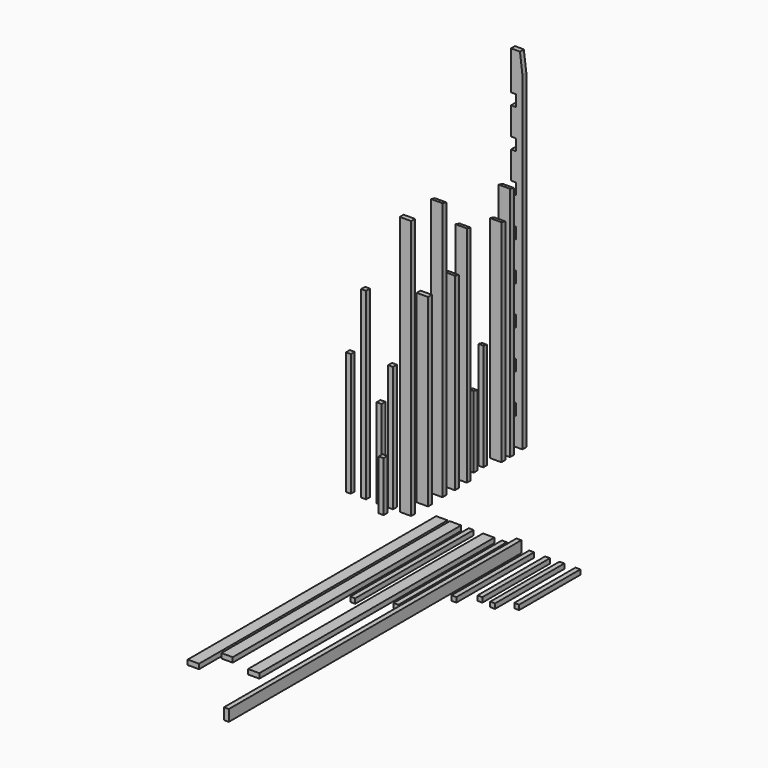
from build123d import *

# Parameters (mm, degrees)
F0_W      = 88.9
F0_H      = 38.1
F1_DEPTH  = 2438.4
F2_W      = 88.9
F2_H      = 38.1
F3_DEPTH  = 2241.55
F4_W      = 88.9
F4_H      = 38.1
F5_DEPTH  = 2038.35
F6_W      = 38.1
F6_H      = 38.1
F7_DEPTH  = 1162.05
F8_W      = 38.1
F8_H      = 38.1
F9_DEPTH  = 984.25
F10_W     = 38.1
F10_H     = 38.1
F11_DEPTH = 698.5
F12_W     = 88.9
F12_H     = 38.1
F13_DEPTH = 1447.8
F14_W     = 38.1
F14_H     = 38.1
F15_DEPTH = 393.7
F16_W     = 88.9
F16_H     = 38.1
F17_DEPTH = 2032
F19_DEPTH = 101.6
F20_W     = 88.9
F20_H     = 38.1
F21_DEPTH = 1482.725
F23_DEPTH = 101.6
F24_W     = 88.9
F24_H     = 38.1
F25_DEPTH = 2305.05
F26_W     = 88.9
F26_H     = 38.1
F27_DEPTH = 1757.3625
F29_DEPTH = 88.9
F30_W     = 38.1
F30_H     = 38.1
F31_DEPTH = 1063.625
F32_W     = 38.1
F32_H     = 38.1
F33_DEPTH = 565.15
F35_DEPTH = 101.6
F36_W     = 38.1
F36_H     = 38.1
F37_DEPTH = 841.375
F39_DEPTH = 38.1
F40_W     = 38.1
F40_H     = 88.9
F41_DEPTH = 2870.2
F42_W     = 88.9
F42_H     = 38.1
F43_DEPTH = 1658.62
F45_DEPTH = 88.9
F46_W     = 88.9
F46_H     = 38.1
F47_DEPTH = 1854.2
F49_DEPTH = 88.9
F50_W     = 38.1
F50_H     = 38.1
F51_DEPTH = 762
F52_W     = 38.1
F52_H     = 38.1
F53_DEPTH = 663.575
F54_W     = 38.1
F54_H     = 38.1
F55_DEPTH = 1441.45
F56_W     = 38.1
F56_H     = 38.1
F57_DEPTH = 679.45
F58_W     = 38.1
F58_H     = 38.1
F59_DEPTH = 600.075
F60_W     = 38.1
F60_H     = 38.1
F61_DEPTH = 965.2
F62_W     = 88.9
F62_H     = 38.1
F63_DEPTH = 2743.2
F64_W     = 38.1
F64_H     = 88.9
F65_DEPTH = 38.1


with BuildPart() as f1:
    # F0 (on Front) → F1 (new body)
    with BuildSketch(Plane.XZ):
        with Locations((44.45, 19.05)):
            Rectangle(F0_W, F0_H)
    extrude(amount=F1_DEPTH)


with BuildPart() as f3:
    # F2 (on Front) → F3 (new body)
    with BuildSketch(Plane.XZ):
        with Locations((151.405934, 19.05)):
            Rectangle(F2_W, F2_H)
    extrude(amount=F3_DEPTH)


with BuildPart() as f5:
    # F4 (on Top) → F5 (new body)
    with BuildSketch(Plane.XY):
        with Locations((-210.627121, -19.05)):
            Rectangle(F4_W, F4_H)
    extrude(amount=F5_DEPTH)


with BuildPart() as f7:
    # F6 (on Front) → F7 (new body)
    with BuildSketch(Plane.XZ):
        with Locations((274.813263, 19.05)):
            Rectangle(F6_W, F6_H)
    extrude(amount=F7_DEPTH)


with BuildPart() as f9:
    # F8 (on Top) → F9 (new body)
    with BuildSketch(Plane.XY):
        with Locations((-327.726066, -19.05)):
            Rectangle(F8_W, F8_H)
    extrude(amount=F9_DEPTH)


with BuildPart() as f11:
    # F10 (on Top) → F11 (new body)
    with BuildSketch(Plane.XY):
        with Locations((-418.106679, -19.05)):
            Rectangle(F10_W, F10_H)
    extrude(amount=F11_DEPTH)


with BuildPart() as f13:
    # F12 (on Top) → F13 (new body)
    with BuildSketch(Plane.XY):
        with Locations((-209.159441, 144.622839)):
            Rectangle(F12_W, F12_H)
    extrude(amount=F13_DEPTH)


with BuildPart() as f15:
    # F14 (on Top) → F15 (new body)
    with BuildSketch(Plane.XY):
        with Locations((-324.783623, -115.327258)):
            Rectangle(F14_W, F14_H)
    extrude(amount=F15_DEPTH)


with BuildPart() as f17:
    # F16 (on Top) → F17 (new body)
    with BuildSketch(Plane.XY):
        with Locations((-216.784082, 295.611974)):
            Rectangle(F16_W, F16_H)
    extrude(amount=F17_DEPTH)

    # F18 (on face) → F19 (cut)
    with BuildSketch(Plane(origin=(-261.234082, 0, 0), x_dir=(0, -1, 0), z_dir=(-1, 0, 0))):
        Polygon((-314.661974, 2022.475), (-276.561974, 2032), (-314.661974, 2032), align=None)
    extrude(amount=-F19_DEPTH, mode=Mode.SUBTRACT)


with BuildPart() as f21:
    # F20 (on Top) → F21 (new body)
    with BuildSketch(Plane.XY):
        with Locations((-214.697614, 416.115001)):
            Rectangle(F20_W, F20_H)
    extrude(amount=F21_DEPTH)

    # F22 (on face) → F23 (cut)
    with BuildSketch(Plane(origin=(-259.147614, 0, 0), x_dir=(0, -1, 0), z_dir=(-1, 0, 0))):
        Polygon((-435.165001, 1473.2), (-397.065001, 1482.725), (-435.165001, 1482.725), align=None)
    extrude(amount=-F23_DEPTH, mode=Mode.SUBTRACT)


with BuildPart() as f25:
    # F24 (on Front) → F25 (new body)
    with BuildSketch(Plane.XZ):
        with Locations((411.617358, 19.05)):
            Rectangle(F24_W, F24_H)
    extrude(amount=F25_DEPTH)


with BuildPart() as f27:
    # F26 (on Top) → F27 (new body)
    with BuildSketch(Plane.XY):
        with Locations((-220.315881, 539.771175)):
            Rectangle(F26_W, F26_H)
    extrude(amount=F27_DEPTH)

    # F28 (on face) → F29 (cut)
    with BuildSketch(Plane(origin=(-264.765881, 0, 0), x_dir=(0, -1, 0), z_dir=(-1, 0, 0))):
        Polygon((-558.821175, 1747.8375), (-520.721175, 1757.3625), (-558.821175, 1757.3625), align=None)
    extrude(amount=-F29_DEPTH, mode=Mode.SUBTRACT)


with BuildPart() as f31:
    # F30 (on Front) → F31 (new body)
    with BuildSketch(Plane.XZ):
        with Locations((535.116774, 19.05)):
            Rectangle(F30_W, F30_H)
    extrude(amount=F31_DEPTH)


with BuildPart() as f33:
    # F32 (on Top) → F33 (new body)
    with BuildSketch(Plane.XY):
        with Locations((-245.47028, 669.316311)):
            Rectangle(F32_W, F32_H)
    extrude(amount=F33_DEPTH)

    # F34 (on face) → F35 (cut)
    with BuildSketch(Plane(origin=(-264.52028, 0, 0), x_dir=(0, -1, 0), z_dir=(-1, 0, 0))):
        Polygon((-688.366311, 555.625), (-650.266311, 565.15), (-688.366311, 565.15), align=None)
    extrude(amount=-F35_DEPTH, mode=Mode.SUBTRACT)


with BuildPart() as f37:
    # F36 (on Top) → F37 (new body)
    with BuildSketch(Plane.XY):
        with Locations((-243.727744, 761.703074)):
            Rectangle(F36_W, F36_H)
    extrude(amount=F37_DEPTH)

    # F38 (on face) → F39 (cut)
    with BuildSketch(Plane(origin=(-262.777744, 0, 0), x_dir=(0, -1, 0), z_dir=(-1, 0, 0))):
        Polygon((-780.753074, 831.85), (-742.653074, 841.375), (-780.753074, 841.375), align=None)
    extrude(amount=-F39_DEPTH, mode=Mode.SUBTRACT)


with BuildPart() as f41:
    # F40 (on Front) → F41 (new body)
    with BuildSketch(Plane.XZ):
        with Locations((649.33302, 44.45)):
            Rectangle(F40_W, F40_H)
    extrude(amount=F41_DEPTH)


with BuildPart() as f43:
    # F42 (on Top) → F43 (new body)
    with BuildSketch(Plane.XY):
        with Locations((-224.733897, 883.997038)):
            Rectangle(F42_W, F42_H)
    extrude(amount=F43_DEPTH)

    # F44 (on face) → F45 (cut)
    with BuildSketch(Plane(origin=(-269.183897, 0, 0), x_dir=(0, -1, 0), z_dir=(-1, 0, 0))):
        Polygon((-903.047038, 1649.095), (-864.947038, 1658.62), (-903.047038, 1658.62), align=None)
    extrude(amount=-F45_DEPTH, mode=Mode.SUBTRACT)


with BuildPart() as f47:
    # F46 (on Top) → F47 (new body)
    with BuildSketch(Plane.XY):
        with Locations((-225.894965, 970.454122)):
            Rectangle(F46_W, F46_H)
    extrude(amount=F47_DEPTH)

    # F48 (on face) → F49 (cut)
    with BuildSketch(Plane(origin=(-270.344965, 0, 0), x_dir=(0, -1, 0), z_dir=(-1, 0, 0))):
        Polygon((-989.504122, 1844.675), (-951.404122, 1854.2), (-989.504122, 1854.2), align=None)
    extrude(amount=-F49_DEPTH, mode=Mode.SUBTRACT)


with BuildPart() as f51:
    # F50 (on Front) → F51 (new body)
    with BuildSketch(Plane.XZ):
        with Locations((749.199772, 19.05)):
            Rectangle(F50_W, F50_H)
    extrude(amount=F51_DEPTH)


with BuildPart() as f53:
    # F52 (on Front) → F53 (new body)
    with BuildSketch(Plane.XZ):
        with Locations((874.22016, 19.05)):
            Rectangle(F52_W, F52_H)
    extrude(amount=F53_DEPTH)


with BuildPart() as f55:
    # F54 (on Top) → F55 (new body)
    with BuildSketch(Plane.XY):
        with Locations((-539.338981, -19.05)):
            Rectangle(F54_W, F54_H)
    extrude(amount=F55_DEPTH)


with BuildPart() as f57:
    # F56 (on Front) → F57 (new body)
    with BuildSketch(Plane.XZ):
        with Locations((986.619183, 19.05)):
            Rectangle(F56_W, F56_H)
    extrude(amount=F57_DEPTH)


with BuildPart() as f59:
    # F58 (on Front) → F59 (new body)
    with BuildSketch(Plane.XZ):
        with Locations((1112.169187, 19.05)):
            Rectangle(F58_W, F58_H)
    extrude(amount=F59_DEPTH)


with BuildPart() as f61:
    # F60 (on Top) → F61 (new body)
    with BuildSketch(Plane.XY):
        with Locations((-658.954722, -19.05)):
            Rectangle(F60_W, F60_H)
    extrude(amount=F61_DEPTH)


with BuildPart() as f63:
    # F62 (on Top) → F63 (new body)
    with BuildSketch(Plane.XY):
        with Locations((-230.595849, 1097.428597)):
            Rectangle(F62_W, F62_H)
    extrude(amount=F63_DEPTH)

    # F64 (on face) → F65 (cut)
    with BuildSketch(Plane(origin=(0, 1116.478597, 0), x_dir=(-1, 0, 0), z_dir=(0, 1, 0))):
        Polygon((186.145849, 2743.2), (186.145849, 2590.8), (205.195849, 2743.2), align=None)
        with Locations((255.995849, 260.35)):
            Rectangle(F64_W, F64_H)
        with Locations((255.995849, 565.15)):
            Rectangle(F64_W, F64_H)
        with Locations((255.995849, 869.95)):
            Rectangle(F64_W, F64_H)
        with Locations((255.995849, 1174.75)):
            Rectangle(F64_W, F64_H)
        with Locations((255.995849, 1479.55)):
            Rectangle(F64_W, F64_H)
        with Locations((255.995849, 1784.35)):
            Rectangle(F64_W, F64_H)
        with Locations((255.995849, 2089.15)):
            Rectangle(F64_W, F64_H)
        with Locations((255.995849, 2393.95)):
            Rectangle(F64_W, F64_H)
    extrude(amount=-F65_DEPTH, mode=Mode.SUBTRACT)


solid = Compound([f1.part, f3.part, f5.part, f7.part, f9.part, f11.part, f13.part, f15.part, f17.part, f21.part, f25.part, f27.part, f31.part, f33.part, f37.part, f41.part, f43.part, f47.part, f51.part, f53.part, f55.part, f57.part, f59.part, f61.part, f63.part])
